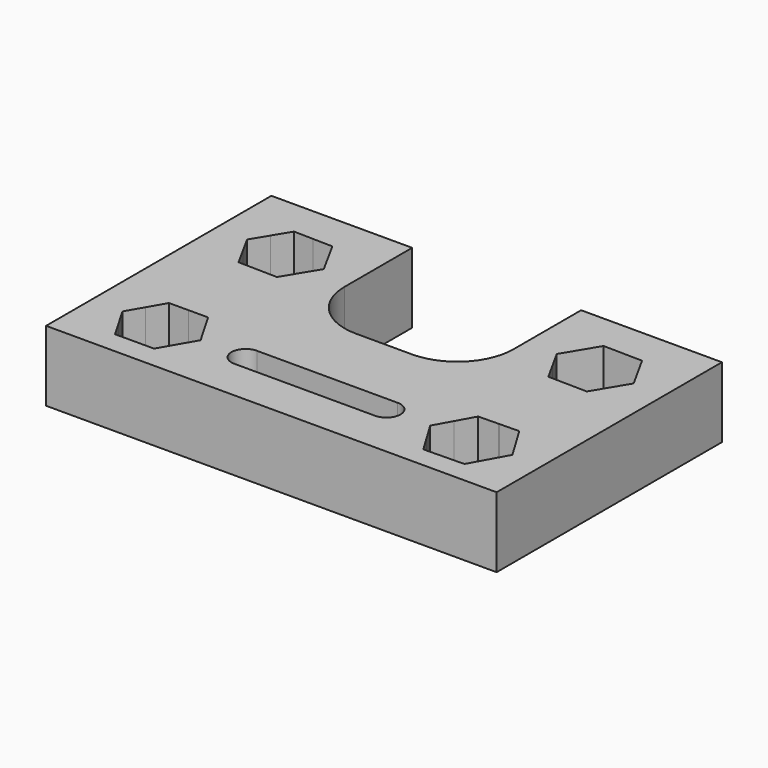
from build123d import *

# Parameters (mm, degrees)
F1_DEPTH = 25


with BuildPart() as f1:
    # F0 (on Top) → F1 (new body)
    with BuildSketch(Plane.XY):
        with BuildLine():
            Line((-31.411291, 67.580059), (-81.411291, 67.580059))
            Line((-81.411291, 67.580059), (-81.411291, 42.580059))
            Line((-81.411291, 42.580059), (-81.411291, -6.443731))
            Line((-81.411291, -6.443731), (-81.411291, -12.419941))
            Line((-81.411291, -12.419941), (-81.411291, -32.419941))
            Line((-81.411291, -32.419941), (-56.411291, -32.419941))
            Line((-56.411291, -32.419941), (-31.411291, -32.419941))
            Line((-31.411291, -32.419941), (-26.411291, -32.419941))
            Line((-26.411291, -32.419941), (28.588709, -32.419941))
            Line((28.588709, -32.419941), (53.588709, -32.419941))
            Line((53.588709, -32.419941), (78.588709, -32.419941))
            Line((78.588709, -32.419941), (78.588709, 42.580059))
            Line((78.588709, 42.580059), (78.588709, 67.580059))
            Line((78.588709, 67.580059), (28.588709, 67.580059))
            Line((28.588709, 67.580059), (28.588709, 37.580059))
            ThreePointArc((28.588709, 37.580059), (22.730845, 23.437924), (8.588709, 17.580059))
            Line((8.588709, 17.580059), (-11.411291, 17.580059))
            ThreePointArc((-11.411291, 17.580059), (-25.553426, 23.437924), (-31.411291, 37.580059))
            Line((-31.411291, 37.580059), (-31.411291, 67.580059))
        make_face()
        Polygon((-70.267661, -12.45164), (-70.249456, -12.419941), (-66.817294, -6.44373), (-63.366928, -0.435822), (-56.438742, -0.419972), (-49.510558, -0.404123), (-46.032739, -6.396182), (-42.554921, -12.388242), (-46.005287, -18.396151), (-49.455654, -24.40406), (-56.383839, -24.419909), (-63.312024, -24.435759), (-66.789843, -18.443699), align=None, mode=Mode.SUBTRACT)
        with BuildLine():
            ThreePointArc((-26.411291, -17.607526), (-31.411291, -12.607526), (-26.411291, -7.607526))
            Line((-26.411291, -7.607526), (23.588709, -7.607526))
            ThreePointArc((23.588709, -7.607526), (28.588709, -12.607526), (23.588709, -17.607526))
            Line((23.588709, -17.607526), (-26.411291, -17.607526))
        make_face(mode=Mode.SUBTRACT)
        Polygon((53.818598, -24.880686), (53.588709, -24.884927), (46.624383, -25.013412), (42.912332, -18.849403), (39.20028, -12.685393), (42.682443, -6.388658), (46.164606, -0.091922), (53.358821, 0.040804), (53.588709, 0.045045), (60.553035, 0.17353), (64.265087, -5.990479), (67.977138, -12.154488), (67.83034, -12.419941), (64.494975, -18.451224), (61.012812, -24.74796), align=None, mode=Mode.SUBTRACT)
        Polygon((-66.925847, 36.796972), (-70.10659, 42.580059), (-70.264714, 42.867554), (-66.67687, 48.794388), (-63.089025, 54.721223), (-56.162314, 54.577476), (-49.235601, 54.433729), (-45.896734, 48.363146), (-42.557867, 42.292564), (-46.145712, 36.36573), (-49.733557, 30.438895), (-56.411291, 30.577475), (-56.660269, 30.582642), (-63.58698, 30.72639), align=None, mode=Mode.SUBTRACT)
        Polygon((64.083761, 48.398469), (67.309461, 42.580059), (67.443021, 42.339147), (63.875125, 36.400282), (60.30723, 30.461417), (53.588709, 30.578245), (53.380073, 30.581873), (46.452918, 30.702329), (43.093658, 36.761649), (39.734397, 42.820971), (43.302293, 48.759836), (46.870189, 54.698701), (53.797345, 54.578245), (60.724501, 54.457789), align=None, mode=Mode.SUBTRACT)
    extrude(amount=F1_DEPTH)


solid = f1.part
